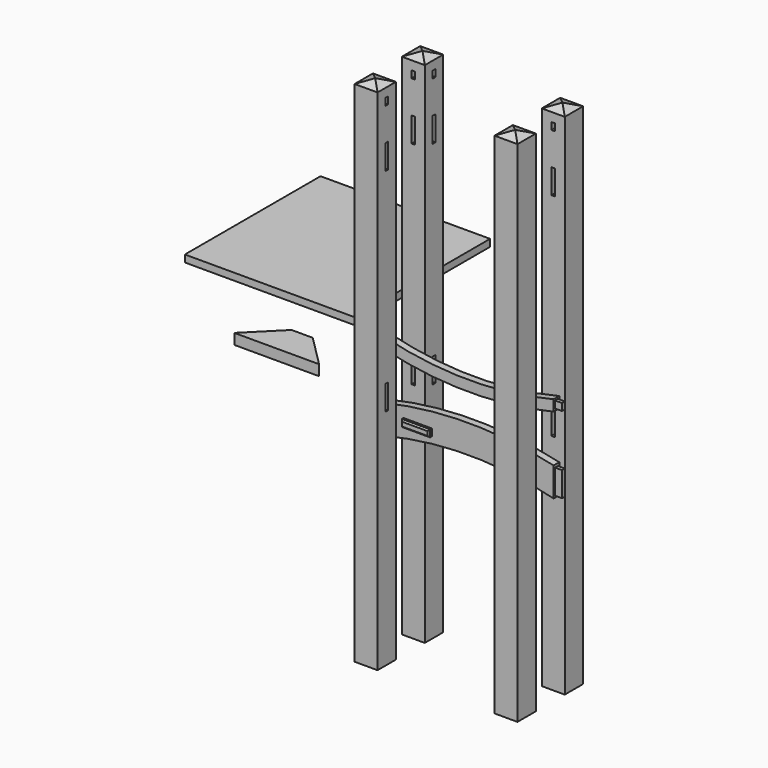
from build123d import *

# Parameters (mm, degrees)
F1_DEPTH   = 12.7
F3_DEPTH   = 12.7
F4_W       = 50.8
F4_H       = 12.7
F5_DEPTH   = 6.35
F6_W       = 41.275
F6_H       = 41.275
F7_DEPTH   = 457.2
F7_FACE1_W = 41.275
F7_FACE1_H = 41.275
F9_DEPTH   = 7.9375
F9_TAPER   = 70
F10_W      = 6.35
F10_H      = 12.7
F10_H_2    = 44.45
F12_DEPTH  = 12.7
F11_W      = 12.7
F11_H      = 12.7
F13_DEPTH  = 3.175
F14_W      = 12.7
F14_H      = 12.7
F15_DEPTH  = 3.175
F16_W      = 12.7
F16_H      = 44.45
F17_DEPTH  = 3.175
F18_W      = 12.7
F18_H      = 44.45
F19_DEPTH  = 3.175
F8_W       = 6.35
F8_H       = 12.7
F8_H_2     = 44.45
F20_DEPTH  = 12.7
F23_W      = 50.8
F23_H      = 12.7
F24_DEPTH  = 12.7
F25_SIZE   = 2.54
F26_SIZE   = 2.54
F29_DEPTH  = 19.05
F30_W      = 304.8
F30_H      = 304.8
F31_DEPTH  = 12.7


with BuildPart() as f1:
    # F0 (on Front) → F1 (new body)
    with BuildSketch(Plane.XZ):
        with BuildLine():
            Line((-152.4, 22.225), (-165.1, 22.225))
            Line((-165.1, 22.225), (-165.1, 9.525))
            Line((-165.1, 9.525), (-152.4, 9.525))
            Line((-152.4, 9.525), (-152.4, 5.7641233607))
            ThreePointArc((-152.4, 5.7641233607), (0, -12.7), (152.4, 5.7641233607))
            Line((152.4, 5.7641233607), (152.4, 9.525))
            Line((152.4, 9.525), (165.1, 9.525))
            Line((165.1, 9.525), (165.1, 22.225))
            Line((165.1, 22.225), (152.4, 22.225))
            Line((152.4, 22.225), (152.4, 25.4))
            ThreePointArc((152.4, 25.4), (0, 6.35), (-152.4, 25.4))
            Line((-152.4, 25.4), (-152.4, 22.225))
        make_face()
    extrude(amount=-F1_DEPTH)

    # F11 (on face) → F13 (cut)
    with BuildSketch(Plane.XZ):
        with Locations((-158.75, 15.875)):
            Rectangle(F11_W, F11_H)
        with Locations((158.75, 15.875)):
            Rectangle(F11_W, F11_H)
    extrude(amount=-F13_DEPTH, mode=Mode.SUBTRACT)

    # F14 (on face) → F15 (cut)
    with BuildSketch(Plane(origin=(0, 12.7, 0), x_dir=(-1, 0, 0), z_dir=(0, 1, 0))):
        with Locations((-158.75, 15.875)):
            Rectangle(F14_W, F14_H)
        with Locations((158.75, 15.875)):
            Rectangle(F14_W, F14_H)
    extrude(amount=-F15_DEPTH, mode=Mode.SUBTRACT)


with BuildPart() as f3:
    # F2 (on Front) → F3 (new body)
    with BuildSketch(Plane.XZ):
        with BuildLine():
            Line((-152.4, -84.0155451241), (-165.1, -84.0155451241))
            Line((-165.1, -84.0155451241), (-165.1, -128.4655451241))
            Line((-165.1, -128.4655451241), (-152.4, -128.4655451241))
            Line((-152.4, -128.4655451241), (-152.4, -131.6405451241))
            ThreePointArc((-152.4, -131.6405451241), (0, -112.5905451241), (152.4, -131.6405451241))
            Line((152.4, -131.6405451241), (152.4, -128.4655451241))
            Line((152.4, -128.4655451241), (165.1, -128.4655451241))
            Line((165.1, -128.4655451241), (165.1, -84.0155451241))
            Line((165.1, -84.0155451241), (152.4, -84.0155451241))
            Line((152.4, -84.0155451241), (152.4, -79.3554102101))
            ThreePointArc((152.4, -79.3554102101), (0, -61.7905451241), (-152.4, -79.3554102101))
            Line((-152.4, -79.3554102101), (-152.4, -84.0155451241))
        make_face()
    extrude(amount=-F3_DEPTH)

    # F4 (on face) → F5 (cut)
    with BuildSketch(Plane.XZ):
        with Locations((-92.075, -98.3030451241)):
            Rectangle(F4_W, F4_H)
        with Locations((92.075, -98.3030451241)):
            Rectangle(F4_W, F4_H)
    extrude(amount=-F5_DEPTH, mode=Mode.SUBTRACT)

    # F16 (on face) → F17 (cut)
    with BuildSketch(Plane(origin=(0, 12.7, 0), x_dir=(-1, 0, 0), z_dir=(0, 1, 0))):
        with Locations((-158.75, -106.2405451241)):
            Rectangle(F16_W, F16_H)
        with Locations((158.75, -106.2405451241)):
            Rectangle(F16_W, F16_H)
    extrude(amount=-F17_DEPTH, mode=Mode.SUBTRACT)

    # F18 (on face) → F19 (cut)
    with BuildSketch(Plane.XZ):
        with Locations((-158.75, -106.2405451241)):
            Rectangle(F18_W, F18_H)
        with Locations((158.75, -106.2405451241)):
            Rectangle(F18_W, F18_H)
    extrude(amount=-F19_DEPTH, mode=Mode.SUBTRACT)


with BuildPart() as f7:
    # F6 (on Top) → F7 (new body, symmetric)
    with BuildSketch(Plane.XY):
        with Locations((-125.7886141539, -53.1197041273)):
            Rectangle(F6_W, F6_H)
    extrude(amount=F7_DEPTH, both=True)

    # F7_face1 (on face) → F9 (join)
    with BuildSketch(Plane(origin=(-125.7886141539, -53.1197041273, 457.2), x_dir=(1, 0, 0), z_dir=(0, 0, 1))):
        Rectangle(F7_FACE1_W, F7_FACE1_H)
    extrude(amount=F9_DEPTH, taper=F9_TAPER)

    # F10 (on face) → F12 (cut)
    with BuildSketch(Plane(origin=(0, -32.4822041273, 0), x_dir=(-1, 0, 0), z_dir=(0, 1, 0))):
        with Locations((125.7886141539, 434.975)):
            Rectangle(F10_W, F10_H)
        with Locations((125.7886141539, 347.6625)):
            Rectangle(F10_W, F10_H_2)
        with Locations((125.7886141539, -33.3375)):
            Rectangle(F10_W, F10_H_2)
    extrude(amount=-F12_DEPTH, mode=Mode.SUBTRACT)

    # F8 (on face) → F20 (cut)
    with BuildSketch(Plane.YZ.offset(-105.1511141539)):
        with Locations((-53.1197041273, 434.975)):
            Rectangle(F8_W, F8_H)
        with Locations((-53.1197041273, 347.6625)):
            Rectangle(F8_W, F8_H_2)
        with Locations((-53.1197041273, -33.3375)):
            Rectangle(F8_W, F8_H_2)
    extrude(amount=-F20_DEPTH, mode=Mode.SUBTRACT)


with BuildPart() as f21_1:
    # F21: instance of F7
    add(f7.part.mirror(Plane.YZ))


with BuildPart() as f22_1:
    # F22: instance of F21_1
    add(f21_1.part.mirror(Plane.XZ))


with BuildPart() as f22_2:
    # F22: instance of F7
    add(f7.part.mirror(Plane.XZ))


with BuildPart() as f24:
    # F23 (on face) → F24 (new body)
    with BuildSketch(Plane.XZ.offset(-6.35)):
        with Locations((-92.075, -98.3030451241)):
            Rectangle(F23_W, F23_H)
    extrude(amount=F24_DEPTH)

    # F25
    f25_edges = [f24.edges().sort_by_distance(p)[0] for p in [
        (-92.075, -6.35, -91.953045),
        (-117.475, -6.35, -98.303045),
        (-92.075, -6.35, -104.653045),
        (-66.675, -6.35, -98.303045),
    ]]
    chamfer(f25_edges, length=F25_SIZE)


with BuildPart() as f24b:
    # F23 (on face) → F24, piece 2 (new body)
    with BuildSketch(Plane.XZ.offset(-6.35)):
        with Locations((92.075, -98.3030451241)):
            Rectangle(F23_W, F23_H)
    extrude(amount=F24_DEPTH)

    # F26
    f26_edges = [f24b.edges().sort_by_distance(p)[0] for p in [
        (92.075, -6.35, -91.953045),
        (66.675, -6.35, -98.303045),
        (92.075, -6.35, -104.653045),
        (117.475, -6.35, -98.303045),
    ]]
    chamfer(f26_edges, length=F26_SIZE)


with BuildPart() as f29:
    # F28 (on Top) → F29 (new body)
    with BuildSketch(Plane.XY):
        Polygon((-274.1305302535, -55.7639211248), (-331.2805302535, -112.9139211248), (-178.8805302535, -112.9139211248), (-236.0305302535, -55.7639211248), align=None)
    extrude(amount=F29_DEPTH)


with BuildPart() as f31:
    # F30 (on Top) → F31 (new body)
    with BuildSketch(Plane.XY):
        with Locations((-389.6168153524, 191.8038818777)):
            Rectangle(F30_W, F30_H)
    extrude(amount=F31_DEPTH)


solid = Compound([f1.part, f3.part, f7.part, f21_1.part, f22_1.part, f22_2.part, f24.part, f29.part, f31.part])
